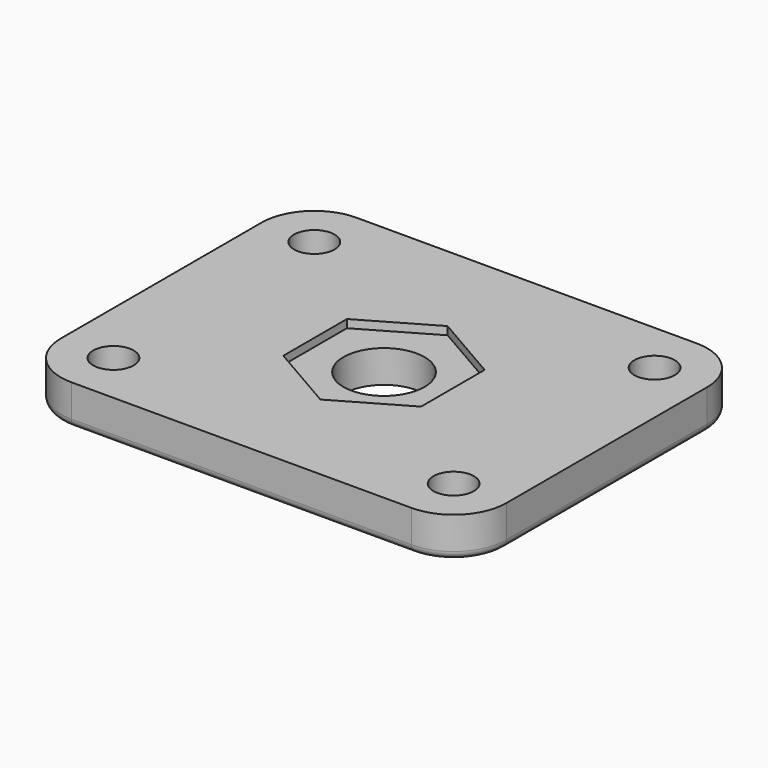
from build123d import *

# Parameters (mm, degrees)
SKETCH_R     = 5
SKETCH_R_2   = 2.5
PAD_DEPTH    = 5
POCKET_DEPTH = 1
FILLET_R     = 1


with BuildPart() as part:
    # Sketch → Pad (new body)
    with BuildSketch(Plane.XY):
        with BuildLine():
            Line((-21, 22), (21, 22))
            ThreePointArc((27.5, 15.5), (25.596194, 20.096194), (21, 22))
            Line((27.5, 15.5), (27.5, -15.5))
            ThreePointArc((21, -22), (25.596194, -20.096194), (27.5, -15.5))
            Line((21, -22), (-21, -22))
            ThreePointArc((-27.5, -15.5), (-25.596194, -20.096194), (-21, -22))
            Line((-27.5, -15.5), (-27.5, 15.5))
            ThreePointArc((-21, 22), (-25.596194, 20.096194), (-27.5, 15.5))
        make_face()
        Circle(SKETCH_R, mode=Mode.SUBTRACT)
        with Locations((-21, 15.5)):
            Circle(SKETCH_R_2, mode=Mode.SUBTRACT)
        with Locations((21, 15.5)):
            Circle(SKETCH_R_2, mode=Mode.SUBTRACT)
        with Locations((21, -15.5)):
            Circle(SKETCH_R_2, mode=Mode.SUBTRACT)
        with Locations((-21, -15.5)):
            Circle(SKETCH_R_2, mode=Mode.SUBTRACT)
    extrude(amount=PAD_DEPTH)

    # Sketch001 (on Face15 of Pad) → Pocket (cut)
    with BuildSketch(Plane.XY.offset(5)):
        Polygon((8.5, 4.907477), (0, 9.814955), (-8.5, 4.907477), (-8.5, -4.907477), (0, -9.814955), (8.5, -4.907477), align=None)
    extrude(amount=-POCKET_DEPTH, mode=Mode.SUBTRACT)

    # Fillet
    fillet_edges = [part.edges().sort_by_distance(p)[0] for p in [
        (25.596194, -20.096194, 0),
        (0, -22, 0),
        (27.5, 0, 0),
        (25.596194, 20.096194, 0),
        (0, 22, 0),
        (-25.596194, 20.096194, 0),
        (-27.5, 0, 0),
        (-25.596194, -20.096194, 0),
    ]]
    fillet(fillet_edges, radius=FILLET_R)


solid = part.part
